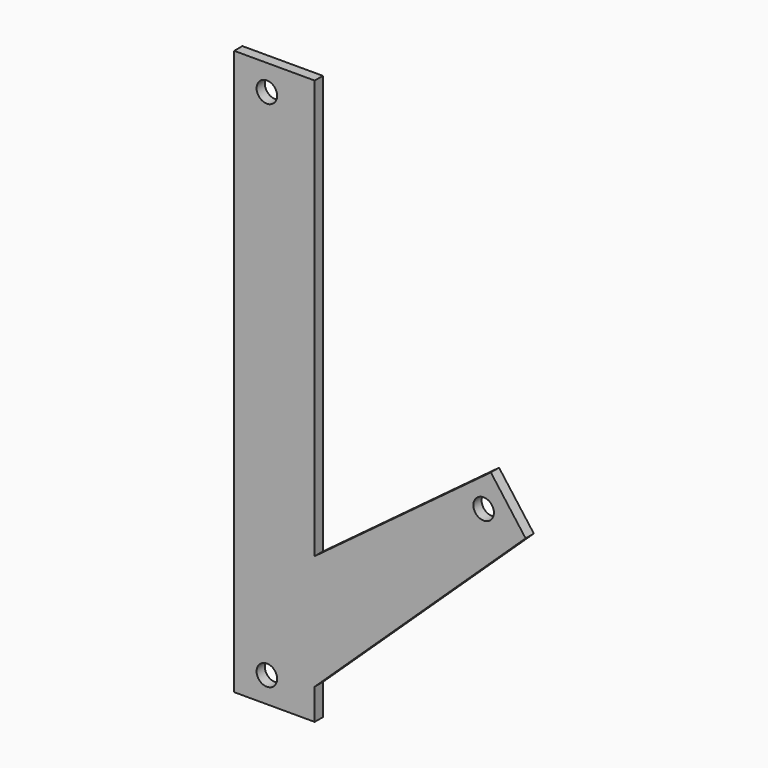
from build123d import *

# Parameters (mm, degrees)
F0_R     = 4
F1_DEPTH = 4


with BuildPart() as f1:
    # F0 (on Front) → F1 (new body)
    with BuildSketch(Plane.XZ):
        Polygon((0, 220), (0, 0), (31.35714, 0), (31.35714, 12.080761), (113.539034, 89.704465), (100.003339, 107.905552), (31.35714, 56.855083), (31.35714, 220), align=None)
        with Locations((12.726834, 10)):
            Circle(F0_R, mode=Mode.SUBTRACT)
        with Locations((97.194239, 94.467405)):
            Circle(F0_R, mode=Mode.SUBTRACT)
        with Locations((12.726834, 210)):
            Circle(F0_R, mode=Mode.SUBTRACT)
    extrude(amount=F1_DEPTH)


solid = f1.part
